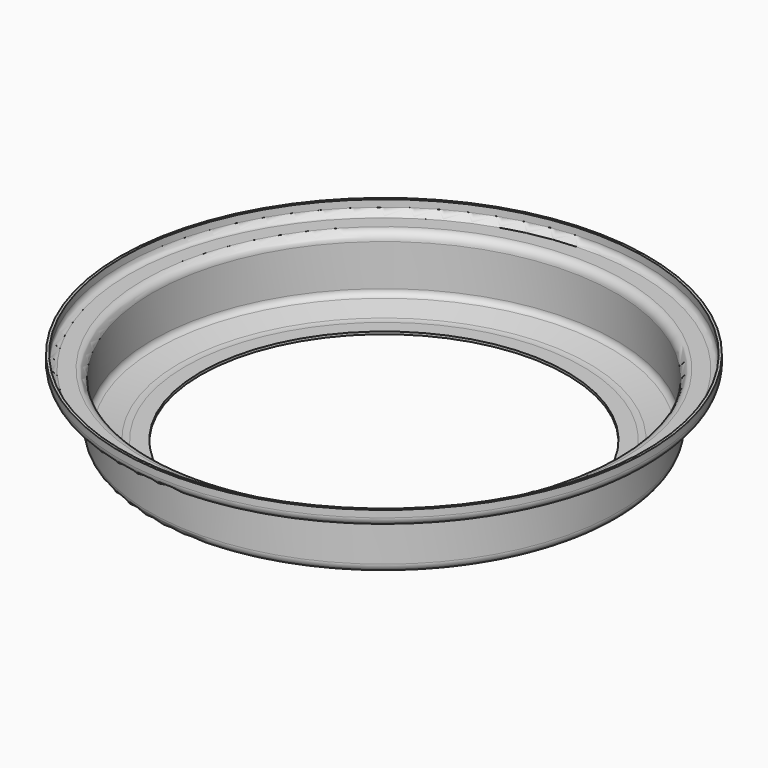
from build123d import *


with BuildPart() as f1:
    # F0 (on Front) → F1 (revolve)
    with BuildSketch(Plane.XZ):
        with BuildLine():
            Line((-161.525032, 0), (-149, 0))
            Line((-149, 0), (-149, 2))
            Line((-149, 2), (-161.525032, 2))
            ThreePointArc((-161.525032, 2), (-163.981264, 2.1514), (-166.40031, 2.603308))
            Line((-166.40031, 2.603308), (-184.71882, 7.207589))
            ThreePointArc((-184.71882, 7.207589), (-187.442975, 8.982197), (-188.5, 12.056762))
            Line((-188.5, 12.056762), (-188.5, 45.8))
            ThreePointArc((-188.5, 45.8), (-190.550253, 50.749747), (-195.5, 52.8))
            Line((-195.5, 52.8), (-207.60654, 52.8))
            ThreePointArc((-207.60654, 52.8), (-211.142074, 54.264466), (-212.60654, 57.8))
            Line((-212.60654, 57.8), (-212.60654, 63.5))
            Line((-212.60654, 63.5), (-214.60654, 63.5))
            Line((-214.60654, 63.5), (-214.60654, 57.8))
            ThreePointArc((-214.60654, 57.8), (-212.556287, 52.850253), (-207.60654, 50.8))
            Line((-207.60654, 50.8), (-195.5, 50.8))
            ThreePointArc((-195.5, 50.8), (-191.964466, 49.335534), (-190.5, 45.8))
            Line((-190.5, 45.8), (-190.5, 12.11897))
            ThreePointArc((-190.5, 12.11897), (-189.020164, 7.814578), (-185.206347, 5.330127))
            Line((-185.206347, 5.330127), (-166.40031, 0.603308))
            ThreePointArc((-166.40031, 0.603308), (-163.981264, 0.1514), (-161.525032, 0))
        make_face()
    revolve(axis=Axis((0, 0, 22.588933), (0, 0, 1)))


solid = f1.part
